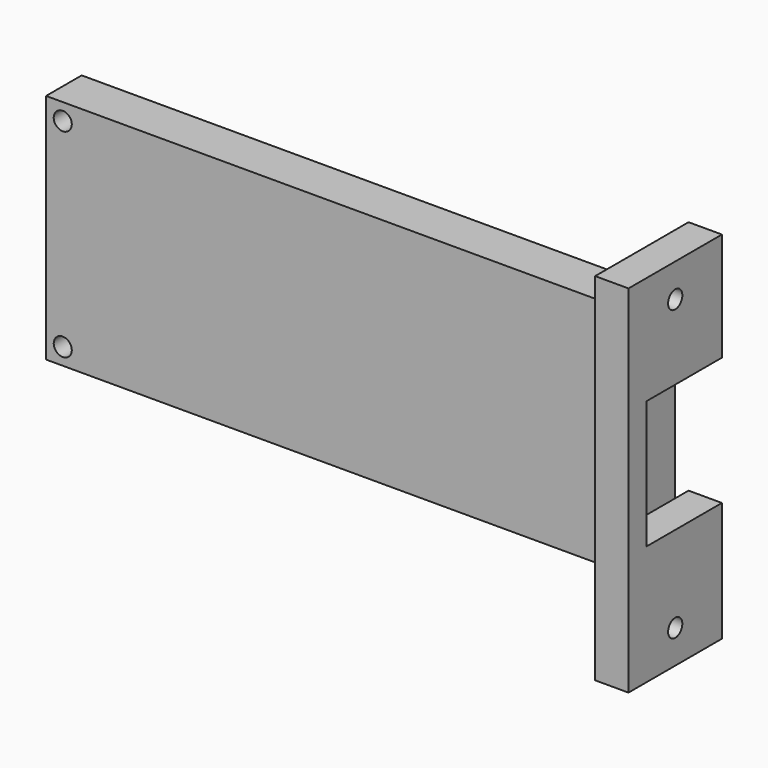
from build123d import *

# Parameters (mm, degrees)
BOX103_W                   = 15
BOX103_H                   = 6
BOX103_DEPTH               = 4
EXTRUDE050_DEPTH           = 5
EXTRUDE050_ROLL_ANGLE      = -90
EXTRUDE050_PLACEMENT_ANGLE = -90
CYLINDER103_R              = 1.6
CYLINDER103_DEPTH          = 10
CYLINDER102_R              = 1.6
CYLINDER102_DEPTH          = 10
SKETCH049_W                = 106.75
SKETCH049_H                = 41.75
SKETCH049_R                = 1.625
EXTRUDE047_DEPTH           = 8
EXTRUDE047_PLACEMENT_ANGLE = 270
BOX101_W                   = 6
BOX101_H                   = 17
BOX101_DEPTH               = 23
BOX099_W                   = 6
BOX099_H                   = 21
BOX099_DEPTH               = 64
TUBE003_R                  = 4
TUBE003_R_2                = 1.5
TUBE003_DEPTH              = 12


with BuildPart() as cube071:
    # Box103 → Box103 (new body)
    with BuildSketch(Plane(origin=(66.5, -0.9, 22.75), x_dir=(1, 0, 0), z_dir=(0, 0, 1))):
        with Locations((7.5, 3)):
            Rectangle(BOX103_W, BOX103_H)
    extrude(amount=BOX103_DEPTH)


with BuildPart() as extrude050:
    # Sketch053 → Extrude050 (new body)
    with BuildSketch(Plane.YZ):
        Polygon((10.25, 66.5), (10.25, 43.25), (12.9, 43.25), (12.9, 20.25), (16.15, 20.25), (16.15, 15.25), (24.15, 15.25), (24.15, 20.25), (27.4, 20.25), (27.4, 43.25), (30, 43.25), (30, 66.5), align=None)
    extrude(amount=EXTRUDE050_DEPTH)


with BuildPart() as extrude050_1:
    # Extrude050 roll: moved
    add(extrude050.part.rotate(Axis((0, 0, 0), (1, 0, 0)), EXTRUDE050_ROLL_ANGLE))


with BuildPart() as extrude050_2:
    # Extrude050 placement: moved
    add(extrude050_1.part.moved(Location((0, 4, 40.25))).rotate(Axis((0, 4, 40.25), (0, 0, 1)), EXTRUDE050_PLACEMENT_ANGLE))


with BuildPart() as cylinder103:
    # Cylinder103 → Cylinder103 (new body)
    with BuildSketch(Plane(origin=(114, 6.5, 46), x_dir=(0, 0, 1), z_dir=(-1, 0, 0))):
        Circle(CYLINDER103_R)
    extrude(amount=CYLINDER103_DEPTH)


with BuildPart() as m3cyl003:
    # Cylinder102 → Cylinder102 (new body)
    with BuildSketch(Plane(origin=(114, 6.5, -6), x_dir=(0, 0, 1), z_dir=(-1, 0, 0))):
        Circle(CYLINDER102_R)
    extrude(amount=CYLINDER102_DEPTH)

    # Fusion086: union Cylinder103
    add(cylinder103.part)


with BuildPart() as m3cyl003_1:
    # Fusion086 placement: moved
    add(m3cyl003.part.moved(Location((0, -10, 0))))


with BuildPart() as bottom004:
    # Sketch049 → Extrude047 (new body)
    with BuildSketch(Plane.YZ):
        with Locations((53.375, 20.875)):
            Rectangle(SKETCH049_W, SKETCH049_H)
        with Locations((3, 3)):
            Circle(SKETCH049_R, mode=Mode.SUBTRACT)
        with Locations((3, 38.75)):
            Circle(SKETCH049_R, mode=Mode.SUBTRACT)
        with Locations((103.75, 38.75)):
            Circle(SKETCH049_R, mode=Mode.SUBTRACT)
        with Locations((103.75, 3)):
            Circle(SKETCH049_R, mode=Mode.SUBTRACT)
    extrude(amount=EXTRUDE047_DEPTH)


with BuildPart() as bottom004_1:
    # Extrude047 placement: moved
    add(bottom004.part.moved(Location((0, 4, 0))).rotate(Axis((0, 4, 0), (0, 0, 1)), EXTRUDE047_PLACEMENT_ANGLE))


with BuildPart() as basemount001:
    # Box101 → Box101 (new body)
    with BuildSketch(Plane(origin=(106.75, 0, 9.5), x_dir=(1, 0, 0), z_dir=(0, 0, 1))):
        with Locations((3, 8.5)):
            Rectangle(BOX101_W, BOX101_H)
    extrude(amount=BOX101_DEPTH)


with BuildPart() as obj1:
    # Box099 → Box099 (new body)
    with BuildSketch(Plane(origin=(106.75, -4, -12), x_dir=(1, 0, 0), z_dir=(0, 0, 1))):
        with Locations((3, 10.5)):
            Rectangle(BOX099_W, BOX099_H)
    extrude(amount=BOX099_DEPTH)

    # Cut064: cut baseMOunt001
    add(basemount001.part, mode=Mode.SUBTRACT)


with BuildPart() as obj1_1:
    # Cut064 placement: moved
    add(obj1.part.moved(Location((0, -10, 0))))

    # Fusion085: union Bottom004
    add(bottom004_1.part)

    # Cut065: cut m3Cyl003
    add(m3cyl003_1.part, mode=Mode.SUBTRACT)

    # Cut066: cut Extrude050
    add(extrude050_2.part, mode=Mode.SUBTRACT)

    # Cut067: cut Cube071
    add(cube071.part, mode=Mode.SUBTRACT)


with BuildPart() as bottom001:
    # Tube003 → Tube003 (new body)
    with BuildSketch(Plane(origin=(71, 12, 18.5), x_dir=(0, 0, -1), z_dir=(0, -1, 0))):
        Circle(TUBE003_R)
        Circle(TUBE003_R_2, mode=Mode.SUBTRACT)
    extrude(amount=TUBE003_DEPTH)

    # Fusion087: union obj1
    add(obj1_1.part)


solid = bottom001.part
